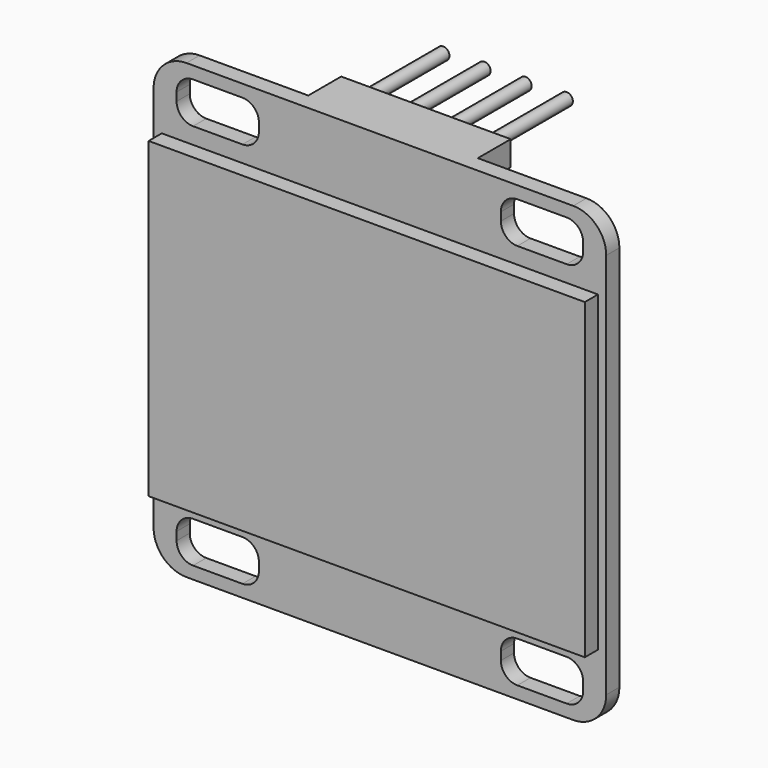
from build123d import *

# Parameters (mm, degrees)
F1_DEPTH = 1
F2_W     = 26.5
F2_H     = 19
F3_DEPTH = 1
F4_W     = 10.3
F4_H     = 1.5
F5_DEPTH = 2.5
F6_R     = 0.375
F7_DEPTH = 6


with BuildPart() as f1:
    # F0 (on Front) → F1 (new body)
    with BuildSketch(Plane.XZ):
        with BuildLine():
            ThreePointArc((13.75, 11.75), (13.164214, 13.164214), (11.75, 13.75))
            Line((11.75, 13.75), (-11.75, 13.75))
            ThreePointArc((-11.75, 13.75), (-13.164214, 13.164214), (-13.75, 11.75))
            Line((-13.75, 11.75), (-13.75, -11.75))
            ThreePointArc((-13.75, -11.75), (-13.164214, -13.164214), (-11.75, -13.75))
            Line((-11.75, -13.75), (11.75, -13.75))
            ThreePointArc((11.75, -13.75), (13.164214, -13.164214), (13.75, -11.75))
            Line((13.75, -11.75), (13.75, 11.75))
        make_face()
        with BuildLine():
            Line((-11.35, -10.5), (-8.35, -10.5))
            ThreePointArc((-8.35, -10.5), (-7.642893, -10.792893), (-7.35, -11.5))
            Line((-7.35, -11.5), (-7.35, -12))
            ThreePointArc((-7.35, -12), (-7.642893, -12.707107), (-8.35, -13))
            Line((-8.35, -13), (-11.35, -13))
            ThreePointArc((-11.35, -13), (-12.057107, -12.707107), (-12.35, -12))
            Line((-12.35, -12), (-12.35, -11.5))
            ThreePointArc((-12.35, -11.5), (-12.057107, -10.792893), (-11.35, -10.5))
        make_face(mode=Mode.SUBTRACT)
        with BuildLine():
            Line((7.35, -12), (7.35, -11.5))
            ThreePointArc((7.35, -11.5), (7.642893, -10.792893), (8.35, -10.5))
            Line((8.35, -10.5), (11.35, -10.5))
            ThreePointArc((11.35, -10.5), (12.057107, -10.792893), (12.35, -11.5))
            Line((12.35, -11.5), (12.35, -12))
            ThreePointArc((12.35, -12), (12.057107, -12.707107), (11.35, -13))
            Line((11.35, -13), (8.35, -13))
            ThreePointArc((8.35, -13), (7.642893, -12.707107), (7.35, -12))
        make_face(mode=Mode.SUBTRACT)
        with BuildLine():
            Line((-7.35, 12), (-7.35, 11.5))
            ThreePointArc((-7.35, 11.5), (-7.642893, 10.792893), (-8.35, 10.5))
            Line((-8.35, 10.5), (-11.35, 10.5))
            ThreePointArc((-11.35, 10.5), (-12.057107, 10.792893), (-12.35, 11.5))
            Line((-12.35, 11.5), (-12.35, 12))
            ThreePointArc((-12.35, 12), (-12.057107, 12.707107), (-11.35, 13))
            Line((-11.35, 13), (-8.35, 13))
            ThreePointArc((-8.35, 13), (-7.642893, 12.707107), (-7.35, 12))
        make_face(mode=Mode.SUBTRACT)
        with BuildLine():
            Line((11.35, 10.5), (8.35, 10.5))
            ThreePointArc((8.35, 10.5), (7.642893, 10.792893), (7.35, 11.5))
            Line((7.35, 11.5), (7.35, 12))
            ThreePointArc((7.35, 12), (7.642893, 12.707107), (8.35, 13))
            Line((8.35, 13), (11.35, 13))
            ThreePointArc((11.35, 13), (12.057107, 12.707107), (12.35, 12))
            Line((12.35, 12), (12.35, 11.5))
            ThreePointArc((12.35, 11.5), (12.057107, 10.792893), (11.35, 10.5))
        make_face(mode=Mode.SUBTRACT)
    extrude(amount=-F1_DEPTH)

    # F2 (on face) → F3 (join)
    with BuildSketch(Plane.XZ):
        Rectangle(F2_W, F2_H)
    extrude(amount=F3_DEPTH)

    # F4 (on face) → F5 (join)
    with BuildSketch(Plane(origin=(0, 1, 0), x_dir=(-1, 0, 0), z_dir=(0, 1, 0))):
        with Locations((0, 13)):
            Rectangle(F4_W, F4_H)
    extrude(amount=F5_DEPTH)

    # F6 (on face) → F7 (join)
    with BuildSketch(Plane(origin=(0, 3.5, 0), x_dir=(-1, 0, 0), z_dir=(0, 1, 0))):
        with Locations((-1.25, 13)):
            Circle(F6_R)
        with Locations((-3.75, 13)):
            Circle(F6_R)
        with Locations((1.25, 13)):
            Circle(F6_R)
        with Locations((3.75, 13)):
            Circle(F6_R)
    extrude(amount=F7_DEPTH)


solid = f1.part
